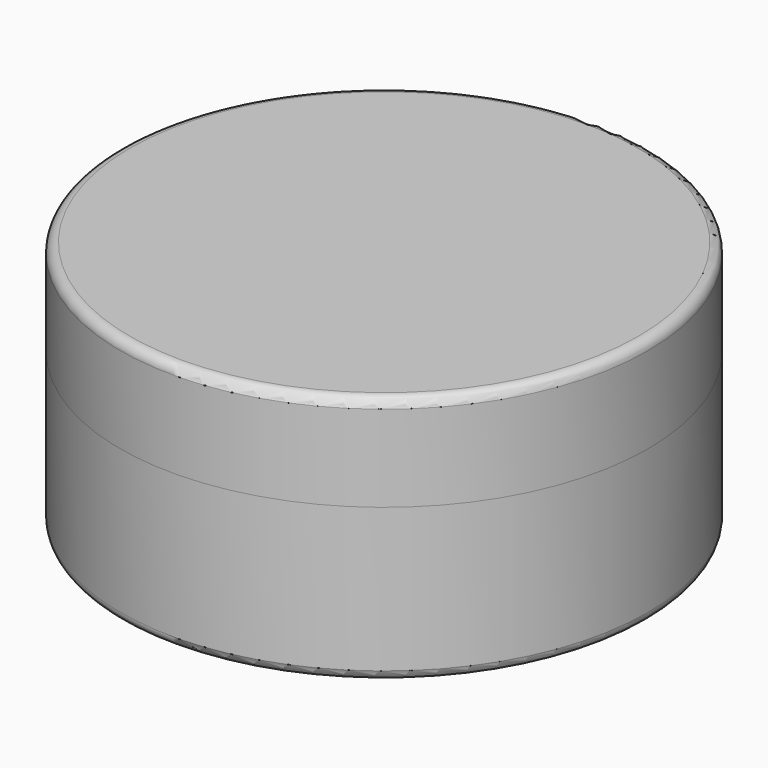
from build123d import *

# Parameters (mm, degrees)
F0_R     = 27.5
F1_DEPTH = 16
F2_R     = 27.5
F3_DEPTH = 10
F4_R     = 1
F5_R     = 1


with BuildPart() as f1:
    # F0 (on Top) → F1 (new body)
    with BuildSketch(Plane.XY):
        Circle(F0_R)
    extrude(amount=F1_DEPTH)

    # F5
    f5_edges = [f1.edges().sort_by_distance(p)[0] for p in [
        (-27.5, 0, 0),
    ]]
    fillet(f5_edges, radius=F5_R)


with BuildPart() as f3:
    # F2 (on face) → F3 (new body)
    with BuildSketch(Plane.XY.offset(16)):
        Circle(F2_R)
    extrude(amount=F3_DEPTH)

    # F4
    f4_edges = [f3.edges().sort_by_distance(p)[0] for p in [
        (-27.5, 0, 26),
    ]]
    fillet(f4_edges, radius=F4_R)


solid = Compound([f1.part, f3.part])
